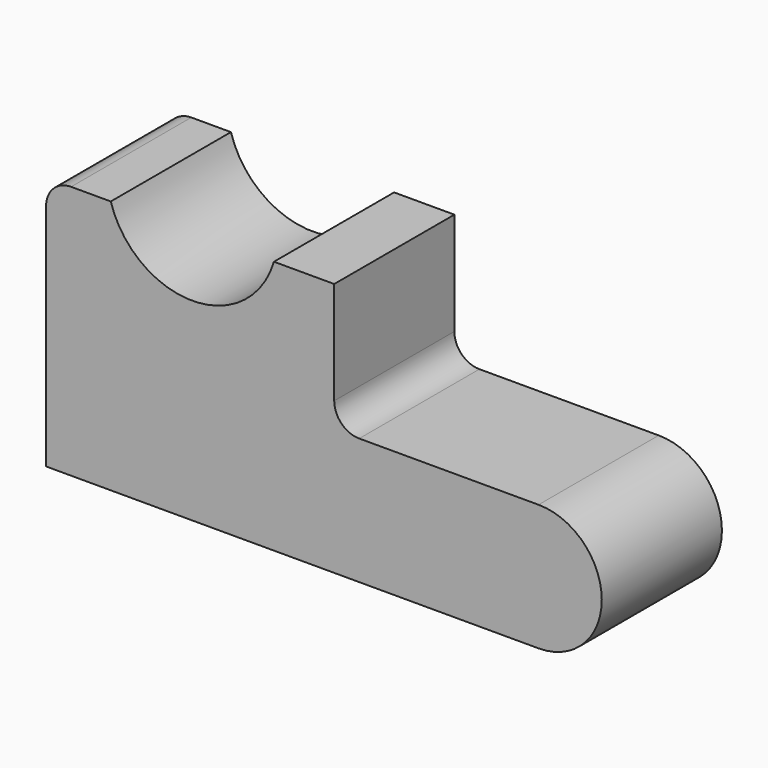
from build123d import *

# Parameters (mm, degrees)
F1_DEPTH = 30


with BuildPart() as f1:
    # F0 (on Front) → F1 (new body)
    with BuildSketch(Plane.XZ):
        with BuildLine():
            Line((-50.354917, 21.727486), (-58.273966, 21.727486))
            ThreePointArc((-58.273966, 21.727486), (-61.8095, 20.263019), (-63.273966, 16.727486))
            Line((-63.273966, 16.727486), (-63.273966, -29.067852))
            Line((-63.273966, -29.067852), (-5.725486, -29.067852))
            Line((-5.725486, -29.067852), (35.086956, -29.067852))
            ThreePointArc((35.086956, -29.067852), (47.712386, -16.442421), (35.086956, -3.816991))
            Line((35.086956, -3.816991), (-0.725486, -3.816991))
            ThreePointArc((-0.725486, -3.816991), (-4.26102, -2.352525), (-5.725486, 1.183009))
            Line((-5.725486, 1.183009), (-5.725486, 21.727486))
            Line((-5.725486, 21.727486), (-17.763687, 21.727486))
            ThreePointArc((-17.763687, 21.727486), (-34.059302, 9.565611), (-50.354917, 21.727486))
        make_face()
    extrude(amount=F1_DEPTH)


solid = f1.part
